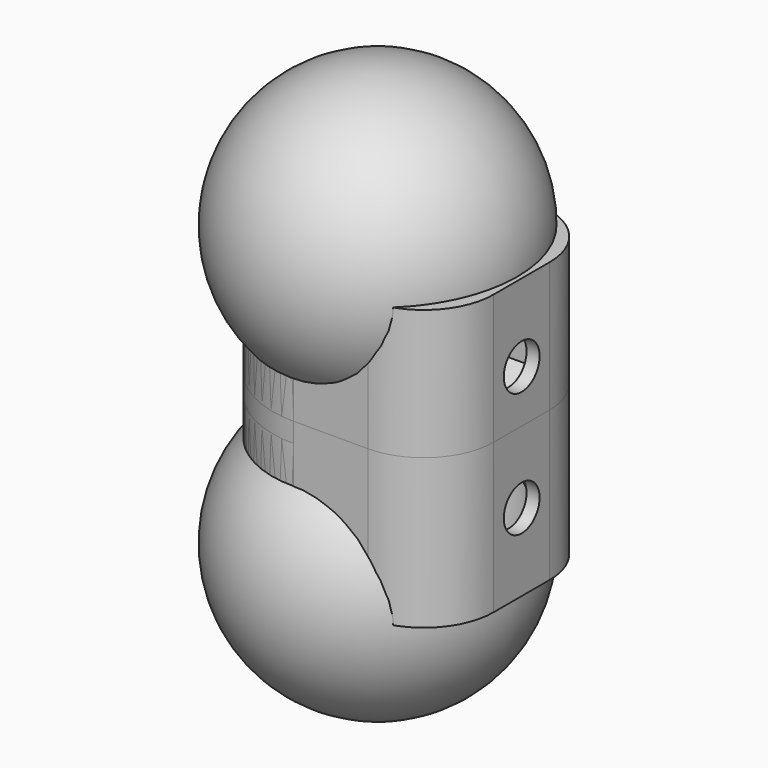
from build123d import *

# Parameters (mm, degrees)
PAD001_DEPTH          = 2.8
PAD_DEPTH             = 10.7
CYLINDER_R            = 7.5
CYLINDER_DEPTH        = 20
SKETCH003_R           = 5.5
POCKET_DEPTH          = 20
SKETCH004_R           = 1.6
POCKET001_DEPTH       = 10
CLONE_PLACEMENT_ANGLE = 180


with BuildPart() as nut_positive:
    # Sketch001 → Pad001 (new body)
    with BuildSketch(Plane(origin=(6.56667, 0.00061, 0), x_dir=(0, 1, 0), z_dir=(1, 0, 0))):
        Polygon((-3.075, 34.675), (3.075, 34.675), (3.075, 12.675), (0, 10.899648), (-3.075, 12.675), align=None)
    extrude(amount=PAD001_DEPTH)


with BuildPart() as base:
    # Sketch → Pad (new body)
    with BuildSketch(Plane.XY.offset(20)):
        with BuildLine():
            ThreePointArc((0, 7.5), (-7.5, 0), (0, -7.5))
            Line((5.3, -7.5), (0, -7.5))
            ThreePointArc((5.3, -7.5), (8.835534, -6.035534), (10.3, -2.5))
            Line((10.3, 2.5), (10.3, -2.5))
            ThreePointArc((10.3, 2.5), (8.835534, 6.035534), (5.3, 7.5))
            Line((0, 7.5), (5.3, 7.5))
        make_face()
    extrude(amount=-PAD_DEPTH)


with BuildPart() as neck:
    # Cylinder → Cylinder (new body)
    with BuildSketch(Plane.XY):
        Circle(CYLINDER_R)
    extrude(amount=CYLINDER_DEPTH)


with BuildPart() as pocket001:
    # Sphere → Sphere (revolve)
    with BuildSketch(Plane.XZ):
        with BuildLine():
            ThreePointArc((0, -10), (10, 0), (0, 10))
            Line((0, 10), (0, -10))
        make_face()
    revolve(axis=Axis((0, 0, 0), (0, 0, 1)))

    # Fusion: union neck
    add(neck.part)

    # Fusion001: union Base
    add(base.part)

    # Cut: cut nut-positive
    add(nut_positive.part, mode=Mode.SUBTRACT)

    # Sketch003 → Pocket (cut)
    with BuildSketch(Plane.XY.offset(20)):
        Circle(SKETCH003_R)
    extrude(amount=-POCKET_DEPTH, mode=Mode.SUBTRACT)

    # Sketch004 → Pocket001 (cut)
    with BuildSketch(Plane.YZ.offset(10.3)):
        with Locations((0, 14.45)):
            Circle(SKETCH004_R)
    extrude(amount=-POCKET001_DEPTH, mode=Mode.SUBTRACT)


with BuildPart() as strutcap:
    # Clone base: copy of Pocket001
    add(pocket001.part)


with BuildPart() as strutcap_1:
    # Clone placement: moved
    add(strutcap.part.moved(Location((0, 0, 20))).rotate(Axis((0, 0, 20), (1, 0, 0)), CLONE_PLACEMENT_ANGLE))


solid = Compound([pocket001.part, strutcap_1.part])
